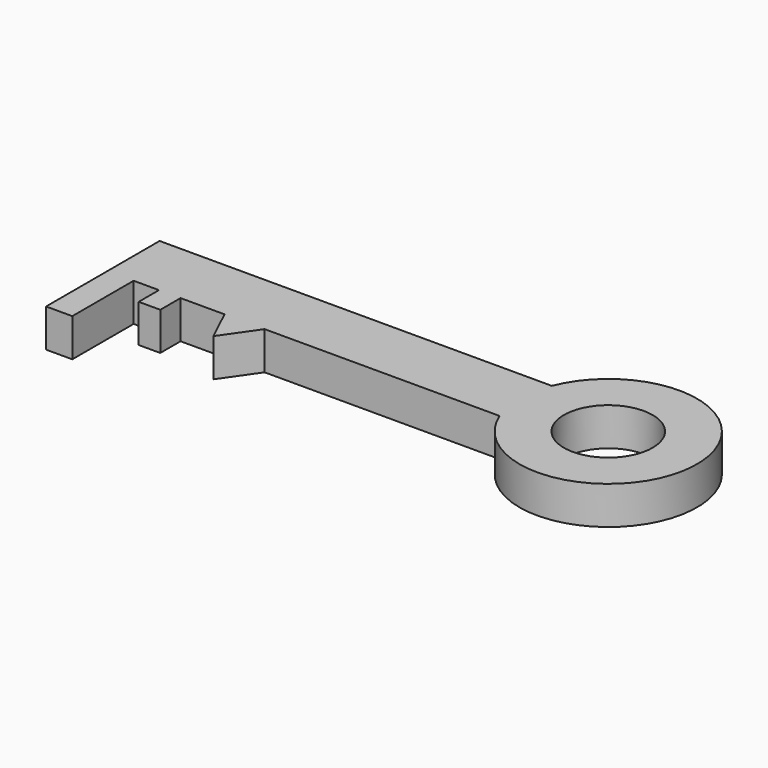
from build123d import *

# Parameters (mm, degrees)
F0_R     = 17.5
F1_DEPTH = 15


with BuildPart() as f1:
    # F0 (on Top) → F1 (new body)
    with BuildSketch(Plane.XY):
        with BuildLine():
            Line((-92.692541, 0), (0, 0))
            ThreePointArc((0, 0), (67.552296, 12.858772), (0, 25.717544))
            Line((0, 25.717544), (-154.690175, 25.717544))
            Line((-154.690175, 25.717544), (-154.690175, 0))
            Line((-154.690175, 0), (-154.690175, -30.239043))
            Line((-154.690175, -30.239043), (-144.35723, -30.239043))
            Line((-144.35723, -30.239043), (-144.35723, 0))
            Line((-144.35723, 0), (-134.35723, 0))
            Line((-134.35723, 0), (-134.35723, -10))
            Line((-134.35723, -10), (-125.847757, -10))
            Line((-125.847757, -10), (-125.847757, 0))
            Line((-125.847757, 0), (-108.495857, 0))
            Line((-108.495857, 0), (-102.113754, -13.523993))
            Line((-102.113754, -13.523993), (-92.692541, 0))
        make_face()
        with Locations((32.552296, 12.858772)):
            Circle(F0_R, mode=Mode.SUBTRACT)
    extrude(amount=F1_DEPTH)


solid = f1.part
